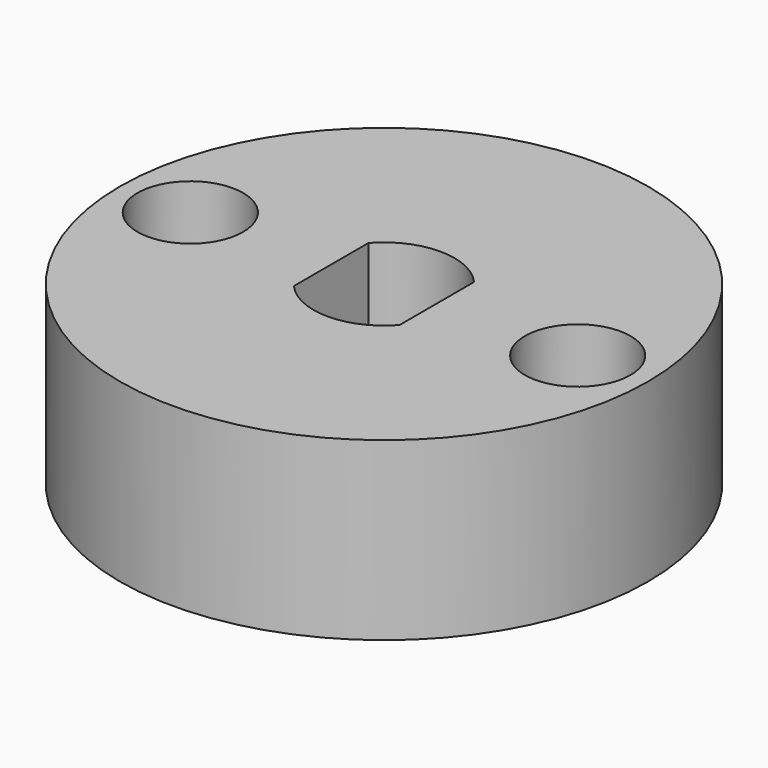
from build123d import *

# Parameters (mm, degrees)
F0_R     = 7.5
F0_R_2   = 1.625
F0_R_3   = 1.5
F1_DEPTH = 5
F3_DEPTH = 2


with BuildPart() as f1:
    # F0 (on Top) → F1 (new body)
    with BuildSketch(Plane.XY):
        Circle(F0_R)
        with Locations((0, -5.5)):
            Circle(F0_R_2, mode=Mode.SUBTRACT)
        with Locations((-5.5, 0)):
            Circle(F0_R_3, mode=Mode.SUBTRACT)
        with BuildLine():
            ThreePointArc((1.5, 1.3228756555), (1.8708286934, 0.7071067812), (2, 0))
            ThreePointArc((2, 0), (1.8708286934, -0.7071067812), (1.5, -1.3228756555))
            Line((1.5, -1.3228756555), (1.5, -2.5))
            Line((1.5, -2.5), (-1.5, -2.5))
            Line((-1.5, -2.5), (-1.5, -1.3228756555))
            ThreePointArc((-1.5, -1.3228756555), (-2, 0), (-1.5, 1.3228756555))
            Line((-1.5, 1.3228756555), (-1.5, 2.5))
            Line((-1.5, 2.5), (1.5, 2.5))
            Line((1.5, 2.5), (1.5, 1.3228756555))
        make_face(mode=Mode.SUBTRACT)
        with Locations((5.5, 0)):
            Circle(F0_R_3, mode=Mode.SUBTRACT)
        with Locations((0, 5.5)):
            Circle(F0_R_2, mode=Mode.SUBTRACT)
        with BuildLine():
            ThreePointArc((-1.5, 1.3228756555), (0, 2), (1.5, 1.3228756555))
            Line((1.5, 1.3228756555), (1.5, 2.5))
            Line((1.5, 2.5), (-1.5, 2.5))
            Line((-1.5, 2.5), (-1.5, 1.3228756555))
        make_face()
        with BuildLine():
            Line((1.5, -2.5), (1.5, -1.3228756555))
            ThreePointArc((1.5, -1.3228756555), (0, -2), (-1.5, -1.3228756555))
            Line((-1.5, -1.3228756555), (-1.5, -2.5))
            Line((-1.5, -2.5), (1.5, -2.5))
        make_face()
        with BuildLine():
            Line((-1.5, -1.3228756555), (-1.5, 1.3228756555))
            ThreePointArc((-1.5, 1.3228756555), (-2, 0), (-1.5, -1.3228756555))
        make_face()
        with BuildLine():
            ThreePointArc((1.5, -1.3228756555), (1.8708286934, -0.7071067812), (2, 0))
            ThreePointArc((2, 0), (1.8708286934, 0.7071067812), (1.5, 1.3228756555))
            Line((1.5, 1.3228756555), (1.5, -1.3228756555))
        make_face()
        with Locations((0, 5.5)):
            Circle(F0_R_2)
        with Locations((0, -5.5)):
            Circle(F0_R_2)
    extrude(amount=F1_DEPTH)

    # F2 (on face) → F3 (cut)
    with BuildSketch(Plane(origin=(0, 0, 0), x_dir=(1, 0, 0), z_dir=(0, 0, -1))):
        with BuildLine():
            Line((2.5, -1.6583123952), (2.5, 1.6583123952))
            ThreePointArc((2.5, 1.6583123952), (1.4186371655, 2.6433820369), (0, 3))
            ThreePointArc((0, 3), (-1.4186371655, 2.6433820369), (-2.5, 1.6583123952))
            Line((-2.5, 1.6583123952), (-2.5, -1.6583123952))
            ThreePointArc((-2.5, -1.6583123952), (-1.4186371655, -2.6433820369), (0, -3))
            ThreePointArc((0, -3), (1.4186371655, -2.6433820369), (2.5, -1.6583123952))
        make_face()
        with BuildLine():
            ThreePointArc((1.5, -1.3228756555), (0, -2), (-1.5, -1.3228756555))
            Line((-1.5, -1.3228756555), (-1.5, 1.3228756555))
            ThreePointArc((-1.5, 1.3228756555), (0, 2), (1.5, 1.3228756555))
            Line((1.5, 1.3228756555), (1.5, -1.3228756555))
        make_face(mode=Mode.SUBTRACT)
        with BuildLine():
            Line((-1.5, 1.3228756555), (-1.5, -1.3228756555))
            ThreePointArc((-1.5, -1.3228756555), (0, -2), (1.5, -1.3228756555))
            Line((1.5, -1.3228756555), (1.5, 1.3228756555))
            ThreePointArc((1.5, 1.3228756555), (0, 2), (-1.5, 1.3228756555))
        make_face()
    extrude(amount=-F3_DEPTH, mode=Mode.SUBTRACT)


solid = f1.part
